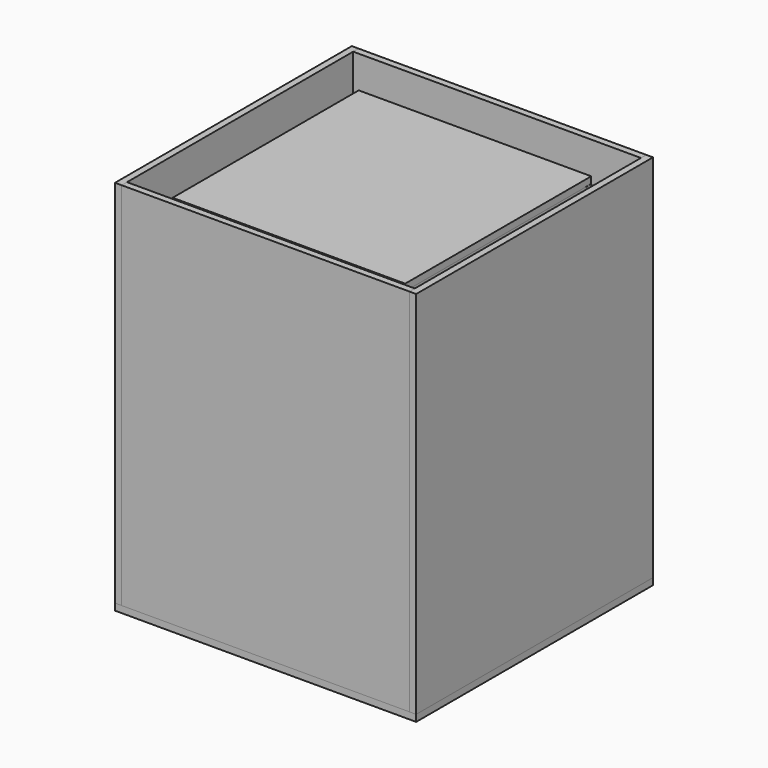
from build123d import *

# Parameters (mm, degrees)
F7_DEPTH  = 13
F9_DEPTH  = 13
F11_DEPTH = 13
F13_DEPTH = 13
F14_W     = 452.5235775191
F14_H     = 452.5077534912
F15_DEPTH = 13
F17_W     = 560
F17_H     = 720
F18_DEPTH = 13
F20_W     = 560
F20_H     = 720
F21_DEPTH = 13
F24_W     = 576
F24_H     = 720
F25_DEPTH = 13
F26_W     = 576
F26_H     = 720
F27_DEPTH = 13
F28_W     = 586
F28_H     = 576
F29_DEPTH = 13


with BuildPart() as f7:
    # F6 (on line) → F7 (new body)
    with BuildSketch(Plane(origin=(0, -249.6955062825, 8.719559218), x_dir=(-1, 0, 0), z_dir=(0, 0.999390827, -0.0348994967))):
        Polygon((-226.2538767456, 671.6896159476), (-250, -8.7248741756), (250, -8.7248741756), (226.2538767456, 671.6896159476), align=None)
    extrude(amount=F7_DEPTH)


with BuildPart() as f9:
    # F8 (on line) → F9 (new body)
    with BuildSketch(Plane(origin=(0, 249.6955062825, 8.719559218), x_dir=(-1, 0, 0), z_dir=(0, 0.999390827, 0.0348994967))):
        Polygon((-226.2538767456, 671.6896159476), (-250, -8.7248741756), (250, -8.7248741756), (226.2538767456, 671.6896159476), align=None)
    extrude(amount=-F9_DEPTH)


with BuildPart() as f11:
    # F10 (on line) → F11 (new body)
    with BuildSketch(Plane(origin=(-249.6955062825, 0, 8.719559218), x_dir=(0, -1, 0), z_dir=(-0.999390827, 0, 0.0348994967))):
        Polygon((-213.2617959944, 671.2361988682), (-237.0079192488, -9.178291255), (237.0079192488, -9.178291255), (213.2617959944, 671.2361988682), align=None)
    extrude(amount=-F11_DEPTH)


with BuildPart() as f13:
    # F12 (on line) → F13 (new body)
    with BuildSketch(Plane(origin=(249.6955062825, 0, 8.719559218), x_dir=(0, 1, 0), z_dir=(0.999390827, 0, 0.0348994967))):
        Polygon((-213.2459719665, 671.6896159476), (-237.0079192488, -9.178291255), (237.0079192488, -9.178291255), (213.2459719665, 671.6896159476), align=None)
    extrude(amount=-F13_DEPTH)


with BuildPart() as f15:
    # F14 (on offset) → F15 (new body)
    with BuildSketch(Plane.XY.offset(680)):
        with Locations((-0.0079120139, 0)):
            Rectangle(F14_W, F14_H)
    extrude(amount=F15_DEPTH)


with BuildPart() as f18:
    # F17 (on offset) → F18 (new body)
    with BuildSketch(Plane.XZ.offset(270)):
        with Locations((0, 360)):
            Rectangle(F17_W, F17_H)
    extrude(amount=F18_DEPTH)


with BuildPart() as f21:
    # F20 (on offset) → F21 (new body)
    with BuildSketch(Plane.XZ.offset(-280)):
        with Locations((0, 360)):
            Rectangle(F20_W, F20_H)
    extrude(amount=-F21_DEPTH)


with BuildPart() as f25:
    # F24 (on offset) → F25 (new body)
    with BuildSketch(Plane.YZ.offset(280)):
        with Locations((5, 360)):
            Rectangle(F24_W, F24_H)
    extrude(amount=F25_DEPTH)


with BuildPart() as f27:
    # F26 (on offset) → F27 (new body)
    with BuildSketch(Plane.YZ.offset(-280)):
        with Locations((5, 360)):
            Rectangle(F26_W, F26_H)
    extrude(amount=-F27_DEPTH)


with BuildPart() as f29:
    # F28 (on Top) → F29 (new body)
    with BuildSketch(Plane.XY):
        with Locations((0, 5)):
            Rectangle(F28_W, F28_H)
    extrude(amount=-F29_DEPTH)


solid = Compound([f7.part, f9.part, f11.part, f13.part, f15.part, f18.part, f21.part, f25.part, f27.part, f29.part])
